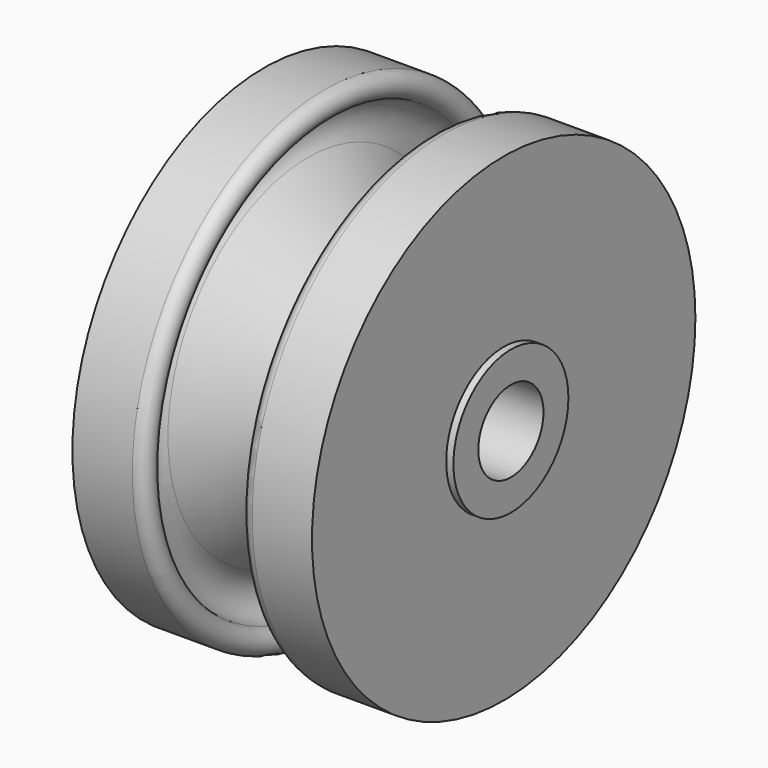
from build123d import *

# Parameters (mm, degrees)
F3_ANGLE = 90
F4_R     = 3
F4_R_2   = 1.7
F5_DEPTH = 0.3
F6_R     = 3
F6_R_2   = 1.7
F7_DEPTH = 0.3


with BuildPart() as f2:
    # F0 (on Front) → F2 (revolve)
    with BuildSketch(Plane.XZ):
        with BuildLine():
            Line((-5, 10), (-5, 1.7))
            Line((-5, 1.7), (0, 1.7))
            Line((0, 1.7), (5, 1.7))
            Line((5, 1.7), (5, 10))
            Line((5, 10), (2.5, 10))
            ThreePointArc((2.5, 10), (1.9996901347, 9.5138398406), (2.4713005726, 8.9997919276))
            ThreePointArc((2.4713005726, 8.9997919276), (3.3941075213, 8.3818635658), (3.1770812302, 7.2926860258))
            Line((3.1770812302, 7.2926860258), (0.7071067812, 4.8227115767))
            ThreePointArc((0.7071067812, 4.8227115767), (0, 4.5298183579), (-0.7071067812, 4.8227115767))
            Line((-0.7071067812, 4.8227115767), (-3.1770812302, 7.2926860258))
            ThreePointArc((-3.1770812302, 7.2926860258), (-3.3941075213, 8.3818635658), (-2.4713005726, 8.9997919276))
            ThreePointArc((-2.4713005726, 8.9997919276), (-1.9996901347, 9.5138398406), (-2.5, 10))
            Line((-2.5, 10), (-5, 10))
        make_face()
    revolve(axis=Axis((0, 0, 0), (1, 0, 0)))


with BuildPart() as f2_1:
    # F3: moved
    add(f2.part.rotate(Axis((-13.5274957865, 0, 0), (-1, 0, 0)), F3_ANGLE))

    # F4 (on face) → F5 (join)
    with BuildSketch(Plane.YZ.offset(5)):
        Circle(F4_R)
        Circle(F4_R_2, mode=Mode.SUBTRACT)
    extrude(amount=F5_DEPTH)

    # F6 (on face) → F7 (join)
    with BuildSketch(Plane(origin=(-5, 0, 0), x_dir=(0, -1, 0), z_dir=(-1, 0, 0))):
        Circle(F6_R)
        Circle(F6_R_2, mode=Mode.SUBTRACT)
    extrude(amount=F7_DEPTH)


solid = f2_1.part
